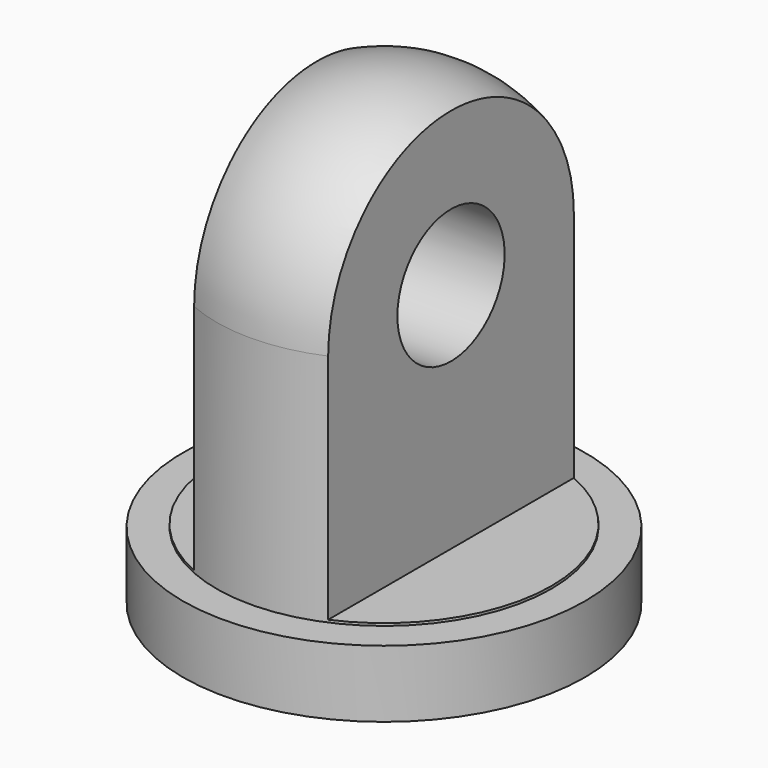
from build123d import *

# Parameters (mm, degrees)
F0_R     = 3
F1_DEPTH = 1
F2_R     = 2.5
F3_DEPTH = 6
F4_R     = 2.5
F5_W     = 2.002786
F5_H     = 9.596602
F5_W_2   = 1.770969
F6_DEPTH = 12.5
F7_R     = 1
F8_DEPTH = 4.001


with BuildPart() as f1:
    # F0 (on Top) → F1 (new body)
    with BuildSketch(Plane.XY):
        Circle(F0_R)
    extrude(amount=F1_DEPTH)


with BuildPart() as f3:
    # F2 (on face) → F3 (new body)
    with BuildSketch(Plane.XY.offset(1)):
        Circle(F2_R)
    extrude(amount=F3_DEPTH)

    # F4
    f4_edges = [f3.edges().sort_by_distance(p)[0] for p in [
        (-2.5, 0, 7),
    ]]
    fillet(f4_edges, radius=F4_R)

    # F5 (on Front) → F6 (cut, symmetric)
    with BuildSketch(Plane.XZ):
        with Locations((-2.001393, 5.835502)):
            Rectangle(F5_W, F5_H)
        with Locations((1.885485, 5.835502)):
            Rectangle(F5_W_2, F5_H)
    extrude(amount=F6_DEPTH, both=True, mode=Mode.SUBTRACT)

    # F7 (on face) → F8 (cut, through all)
    with BuildSketch(Plane(origin=(-1, 0, 0), x_dir=(0, -1, 0), z_dir=(-1, 0, 0))):
        with Locations((0, 4.5)):
            Circle(F7_R)
    extrude(amount=-F8_DEPTH, mode=Mode.SUBTRACT)


solid = Compound([f1.part, f3.part])
